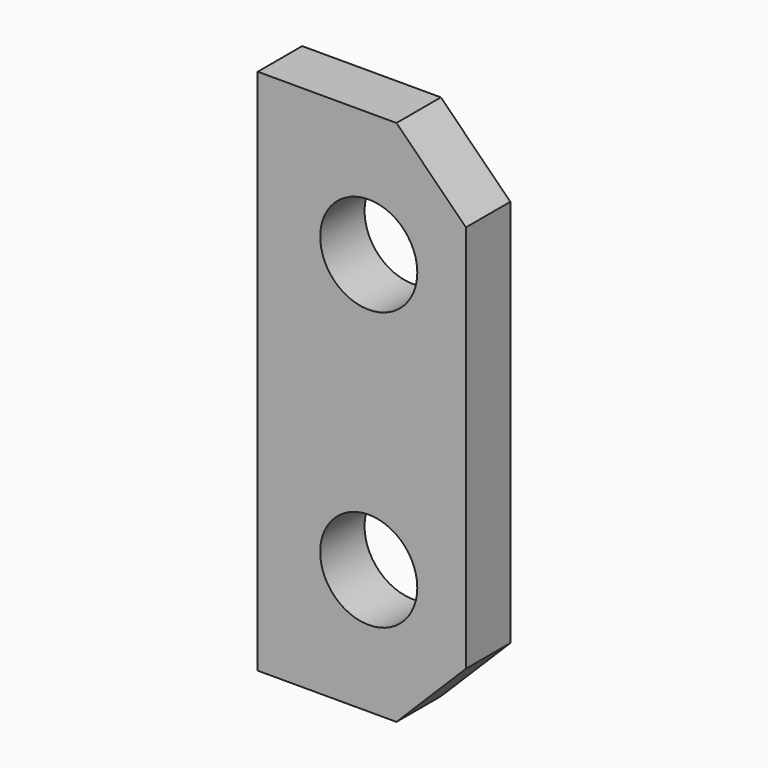
from build123d import *

# Parameters (mm, degrees)
CYLINDER074_R          = 1.75
CYLINDER074_DEPTH      = 30
CYLINDER074_ROLL_ANGLE = 90
CYLINDER073_R          = 1.75
CYLINDER073_DEPTH      = 30
CYLINDER073_ROLL_ANGLE = 90
BOX067_W               = 7.5
BOX067_H               = 2
BOX067_DEPTH           = 19
CHAMFER012_SIZE        = 2.5


with BuildPart() as cylinder186:
    # Cylinder074 → Cylinder074 (new body)
    with BuildSketch(Plane.XY):
        Circle(CYLINDER074_R)
    extrude(amount=CYLINDER074_DEPTH)


with BuildPart() as cylinder186_1:
    # Cylinder074 roll: moved
    add(cylinder186.part.rotate(Axis((0, 0, 0), (1, 0, 0)), CYLINDER074_ROLL_ANGLE))


with BuildPart() as cylinder186_2:
    # Cylinder074 placement: moved
    add(cylinder186_1.part.moved(Location((17.5, -21, -22.5))))


with BuildPart() as fusion060:
    # Cylinder073 → Cylinder073 (new body)
    with BuildSketch(Plane.XY):
        Circle(CYLINDER073_R)
    extrude(amount=CYLINDER073_DEPTH)


with BuildPart() as fusion060_1:
    # Cylinder073 roll: moved
    add(fusion060.part.rotate(Axis((0, 0, 0), (1, 0, 0)), CYLINDER073_ROLL_ANGLE))


with BuildPart() as fusion060_2:
    # Cylinder073 placement: moved
    add(fusion060_1.part.moved(Location((17.5, -21, -12.5))))

    # Fusion060: union Cylinder186
    add(cylinder186_2.part)


with BuildPart() as spacer:
    # Box067 → Box067 (new body)
    with BuildSketch(Plane(origin=(13.5, -39, -27), x_dir=(1, 0, 0), z_dir=(0, 0, 1))):
        with Locations((3.75, 1)):
            Rectangle(BOX067_W, BOX067_H)
    extrude(amount=BOX067_DEPTH)

    # Chamfer012
    chamfer012_edges = [spacer.edges().sort_by_distance(p)[0] for p in [
        (21, -38, -8),
        (21, -38, -27),
    ]]
    chamfer(chamfer012_edges, length=CHAMFER012_SIZE)

    # Cut094: cut Fusion060
    add(fusion060_2.part, mode=Mode.SUBTRACT)


solid = spacer.part
